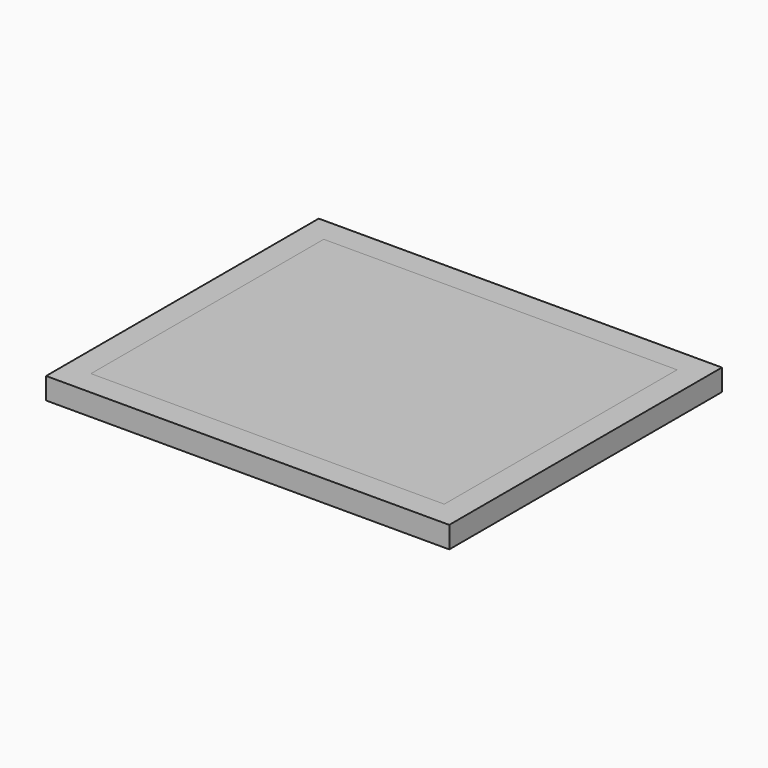
from build123d import *

# Parameters (mm, degrees)
F0_W     = 8500
F0_H     = 7000
F1_DEPTH = 520
F2_W     = 9700
F2_H     = 8200
F2_W_2   = 8500
F2_H_2   = 7000
F3_DEPTH = 520


with BuildPart() as f1:
    # F0 (on Top) → F1 (new body)
    with BuildSketch(Plane.XY):
        with Locations((4250, 3500)):
            Rectangle(F0_W, F0_H)
    extrude(amount=F1_DEPTH)


with BuildPart() as f3:
    # F2 (on Top) → F3 (new body, through all)
    with BuildSketch(Plane.XY):
        with Locations((4250, 3500)):
            Rectangle(F2_W, F2_H)
        with Locations((4250, 3500)):
            Rectangle(F2_W_2, F2_H_2, mode=Mode.SUBTRACT)
    extrude(amount=F3_DEPTH)


solid = Compound([f1.part, f3.part])
